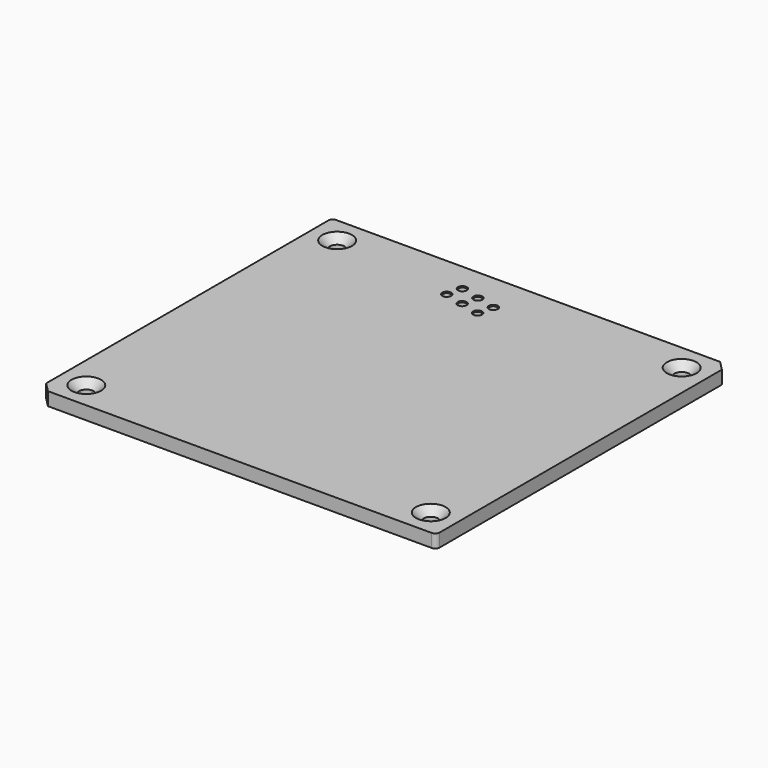
from build123d import *

# Parameters (mm, degrees)
PAD_DEPTH           = 6
HOLE_D              = 6.6
HOLE_DEPTH          = 25
HOLE_CSINK_D        = 13.44
HOLE_CSINK_ANGLE    = 90
HOLE001_D           = 3.3
HOLE001_CSINK_D     = 4.05
HOLE001_CSINK_ANGLE = 90


with BuildPart() as part:
    # Sketch → Pad (new body)
    with BuildSketch(Plane.XY):
        with BuildLine():
            Line((0, 4.242641), (4.242641, 0))
            Line((177.999997, 0), (4.242641, 0))
            ThreePointArc((177.999997, 0), (179.414214, 0.585787), (180, 2.000004))
            Line((180, 161.757359), (180, 2.000004))
            Line((175.757359, 166), (180, 161.757359))
            Line((2.000009, 166), (175.757359, 166))
            ThreePointArc((2.000009, 166), (0.585793, 165.414221), (0, 164.000011))
            Line((0, 4.242641), (0, 164.000011))
        make_face()
    extrude(amount=PAD_DEPTH)

    # Hole
    with Locations(Plane.XY.offset(6)):
        with Locations((12, 154), (168, 154), (168, 12), (12, 12)):
            CounterSinkHole(HOLE_D / 2, HOLE_CSINK_D / 2, depth=HOLE_DEPTH, counter_sink_angle=HOLE_CSINK_ANGLE)

    # Hole001 (through all)
    with Locations(Plane.XY.offset(6)):
        with Locations((69.693453, 152.79207), (78.426115, 150.614773), (87.158776, 148.437476), (68, 146), (76.732662, 143.822703), (85.465323, 141.645406)):
            CounterSinkHole(HOLE001_D / 2, HOLE001_CSINK_D / 2, counter_sink_angle=HOLE001_CSINK_ANGLE)


solid = part.part
